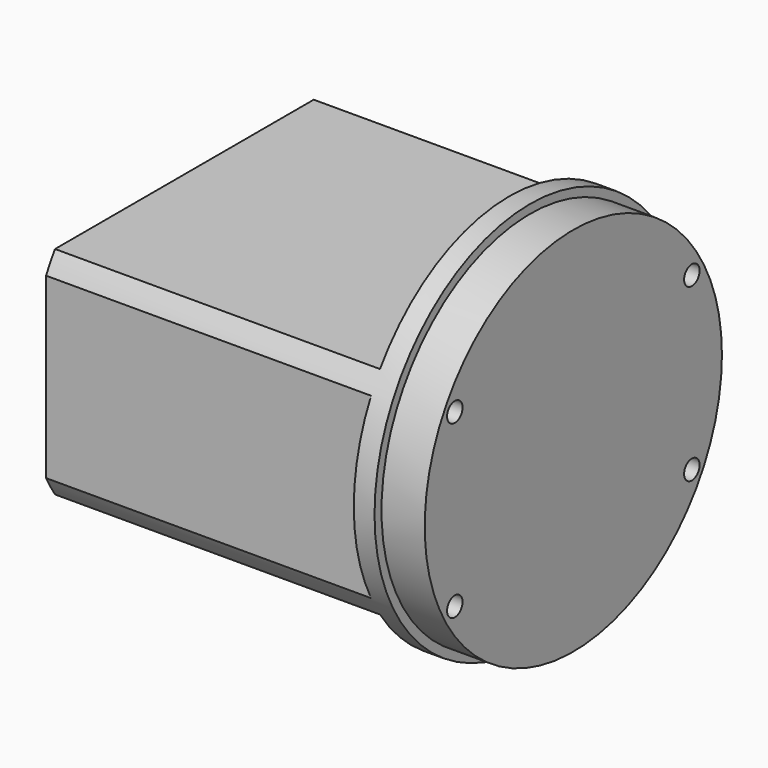
from build123d import *

# Parameters (mm, degrees)
F0_R     = 28.575
F0_R_2   = 27.2923
F1_DEPTH = 57.15
F2_DEPTH = 6.35
F4_DEPTH = 47.752
F5_R     = 1.4224
F6_DEPTH = 9.652


with BuildPart() as f1:
    # F0 (on Right) → F1 (new body)
    with BuildSketch(Plane.YZ):
        Circle(F0_R)
        Circle(F0_R_2, mode=Mode.SUBTRACT)
        Circle(F0_R_2)
    extrude(amount=-F1_DEPTH)

    # F0 (on Right) → F2 (cut)
    with BuildSketch(Plane.YZ):
        Circle(F0_R)
        Circle(F0_R_2, mode=Mode.SUBTRACT)
    extrude(amount=-F2_DEPTH, mode=Mode.SUBTRACT)

    # F3 (on face) → F4 (cut)
    with BuildSketch(Plane(origin=(-57.15, 0, 0), x_dir=(0, -1, 0), z_dir=(-1, 0, 0))):
        with BuildLine():
            ThreePointArc((-23.759524406, -15.875), (0, -28.575), (23.759524406, -15.875))
            Line((23.759524406, -15.875), (-23.759524406, -15.875))
        make_face()
        with BuildLine():
            Line((25.4, 13.0908603613), (25.4, -13.0908603613))
            ThreePointArc((25.4, -13.0908603613), (27.7699083992, -6.7351920908), (28.575, 0))
            ThreePointArc((28.575, 0), (27.7699083992, 6.7351920908), (25.4, 13.0908603613))
        make_face()
        with BuildLine():
            Line((-23.759524406, 15.875), (23.759524406, 15.875))
            ThreePointArc((23.759524406, 15.875), (0, 28.575), (-23.759524406, 15.875))
        make_face()
    extrude(amount=-F4_DEPTH, mode=Mode.SUBTRACT)

    # F5 (on face) → F6 (cut)
    with BuildSketch(Plane.YZ):
        with Locations((-21.7678, 12.573)):
            Circle(F5_R)
        with Locations((21.7678, 12.573)):
            Circle(F5_R)
        with Locations((21.7678, -12.573)):
            Circle(F5_R)
        with Locations((-21.7678, -12.573)):
            Circle(F5_R)
    extrude(amount=-F6_DEPTH, mode=Mode.SUBTRACT)


solid = f1.part
